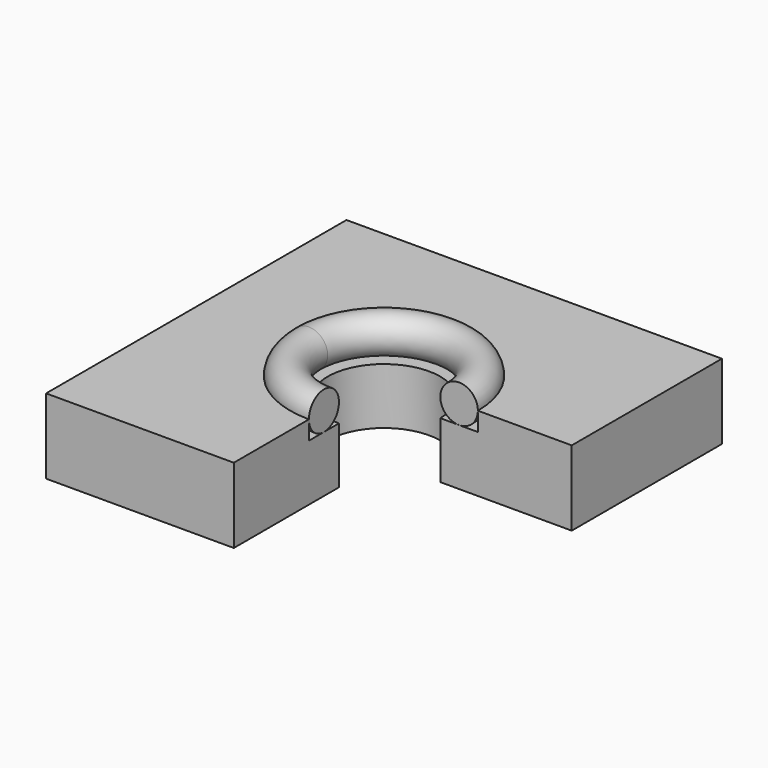
from build123d import *

# Parameters (mm, degrees)
F0_W     = 100
F0_H     = 100
F0_R     = 15
F1_DEPTH = 20
F2_R     = 25
F2_R_2   = 15
F3_DEPTH = 5
F4_R     = 5
F6_W     = 50
F6_H     = 10
F6_H_2   = 20
F7_DEPTH = 50


with BuildPart() as f1:
    # F0 (on Top) → F1 (new body)
    with BuildSketch(Plane.XY):
        Rectangle(F0_W, F0_H)
        Circle(F0_R, mode=Mode.SUBTRACT)
    extrude(amount=F1_DEPTH)

    # F2 (on face) → F3 (cut)
    with BuildSketch(Plane.XY.offset(20)):
        Circle(F2_R)
        Circle(F2_R_2, mode=Mode.SUBTRACT)
    extrude(amount=-F3_DEPTH, mode=Mode.SUBTRACT)


with BuildPart() as f5:
    # F4 (on Front) → F5 (revolve)
    with BuildSketch(Plane.XZ):
        with Locations((-20, 20)):
            Circle(F4_R)
    revolve(axis=Axis((0, 0, 0), (0, 0, -1)))


with BuildPart() as f7_tool:
    # F6 (on face) → F7 (new body)
    with BuildSketch(Plane.XZ.offset(50)):
        with Locations((25, 25)):
            Rectangle(F6_W, F6_H)
        with Locations((25, 10)):
            Rectangle(F6_W, F6_H_2)
    extrude(amount=-F7_DEPTH)


with BuildPart() as f1_1:
    add(f1.part)

    # F7: cut by f7_tool
    add(f7_tool.part, mode=Mode.SUBTRACT)


with BuildPart() as f5_1:
    add(f5.part)

    # F7: cut by f7_tool
    add(f7_tool.part, mode=Mode.SUBTRACT)


solid = Compound([f1_1.part, f5_1.part])
